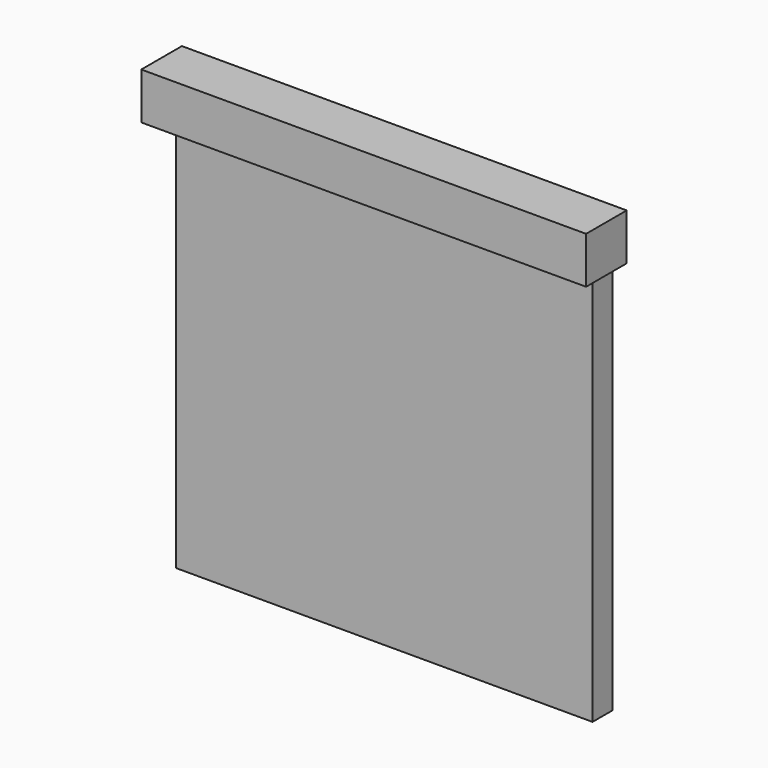
from build123d import *

# Parameters (mm, degrees)
SKETCH003_W  = 44.7
SKETCH003_H  = 2.7
PAD_DEPTH    = 42.7
SKETCH_W     = 47.71762
SKETCH_H     = 5.44294
PAD001_DEPTH = 5


with BuildPart() as part:
    # Sketch003 → Pad (new body)
    with BuildSketch(Plane.XY):
        with Locations((0, 4.079289)):
            Rectangle(SKETCH003_W, SKETCH003_H)
    extrude(amount=PAD_DEPTH)

    # Sketch → Pad001 (new body)
    with BuildSketch(Plane.XY.offset(42.7)):
        with Locations((0, 2.707819)):
            Rectangle(SKETCH_W, SKETCH_H)
    extrude(amount=PAD001_DEPTH)


solid = part.part
